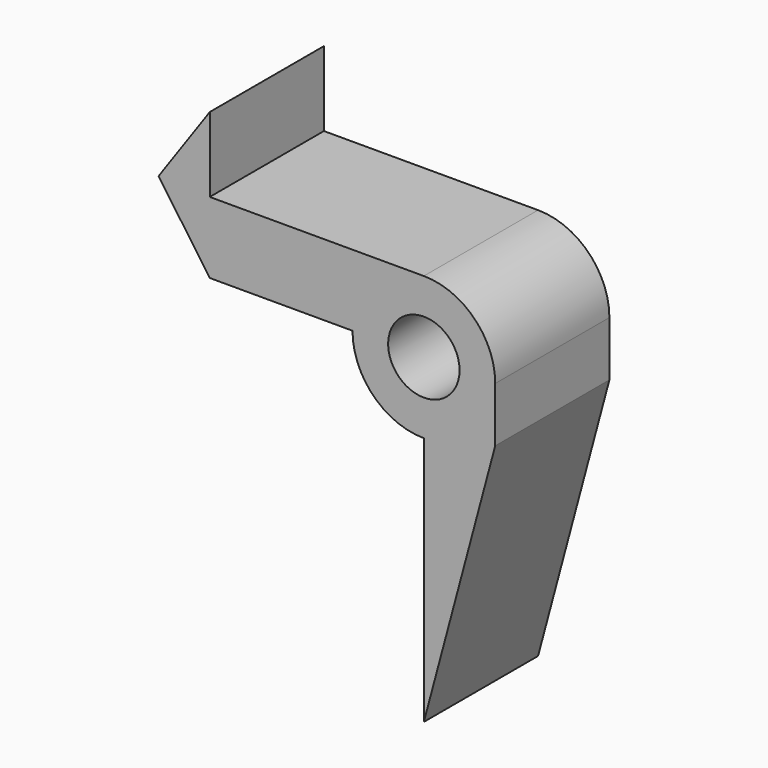
from build123d import *

# Parameters (mm, degrees)
F0_R     = 1
F1_DEPTH = 4


with BuildPart() as f1:
    # F0 (on Front) → F1 (new body)
    with BuildSketch(Plane.XZ):
        with BuildLine():
            ThreePointArc((0, -2), (1.414214, -1.414214), (2, 0))
            ThreePointArc((2, 0), (1.414214, 1.414214), (0, 2))
            ThreePointArc((0, 2), (-1.414197, 1.41423), (-2, 4.6e-05))
            ThreePointArc((-2, 4.6e-05), (-1.41423, -1.414197), (0, -2))
        make_face()
        Circle(F0_R, mode=Mode.SUBTRACT)
        with BuildLine():
            Line((2, -1.535898), (2, 0))
            ThreePointArc((2, 0), (1.414214, -1.414214), (0, -2))
            Line((0, -2), (0, -9))
            Line((0, -9), (2, -1.535898))
        make_face()
        with BuildLine():
            ThreePointArc((-2, 4.6e-05), (-1.414197, 1.41423), (0, 2))
            Line((0, 2), (-6, 2))
            Line((-6, 2), (-6, 4.095806))
            Line((-6, 4.095806), (-7.433941, 2.047926))
            Line((-7.433941, 2.047926), (-6, 4.6e-05))
            Line((-6, 4.6e-05), (-2, 4.6e-05))
        make_face()
    extrude(amount=F1_DEPTH)


solid = f1.part
